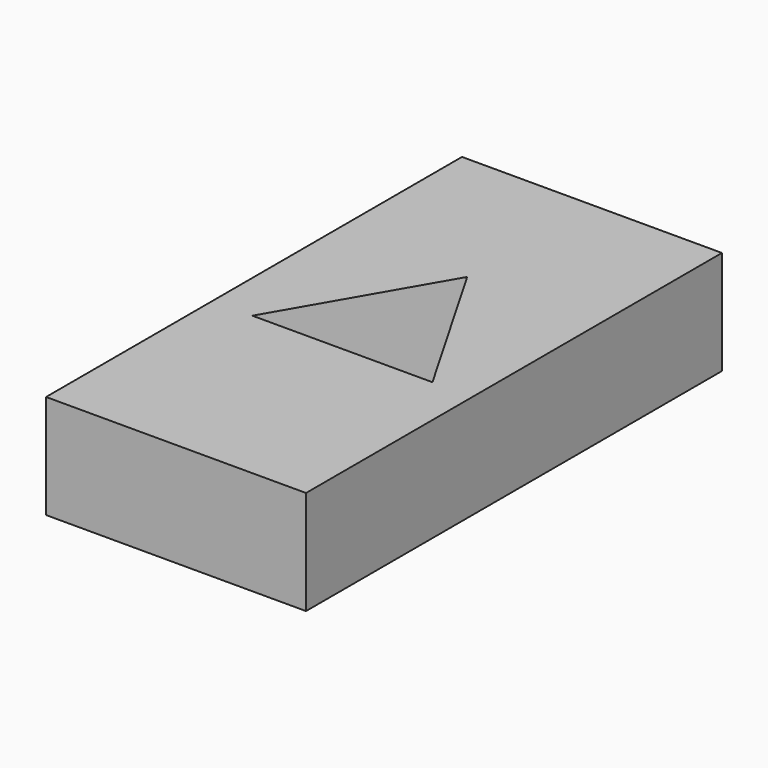
from build123d import *

# Parameters (mm, degrees)
F0_W     = 25
F0_H     = 50
F1_DEPTH = 10
F3_DEPTH = 10.001


with BuildPart() as f1:
    # F0 (on Top) → F1 (new body)
    with BuildSketch(Plane.XY):
        Rectangle(F0_W, F0_H)
    extrude(amount=F1_DEPTH)

    # F2 (on Top) → F3 (cut, through all)
    with BuildSketch(Plane.XY):
        Polygon((0, 10), (-8.660254, -5), (8.660254, -5), align=None)
    extrude(amount=F3_DEPTH, mode=Mode.SUBTRACT)


solid = f1.part
